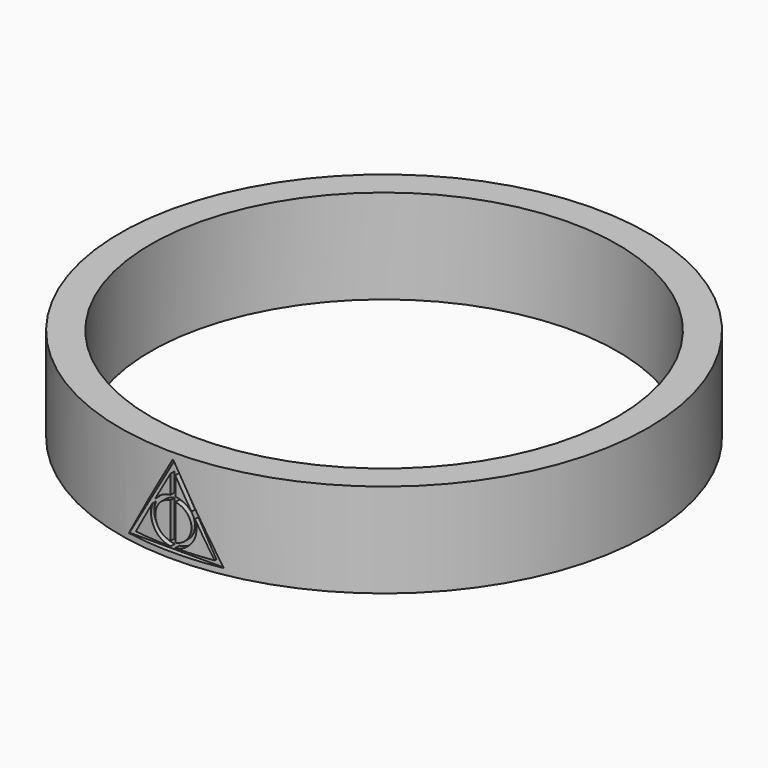
from build123d import *

# Parameters (mm, degrees)
F0_R     = 11.22
F0_R_2   = 9.92
F1_DEPTH = 4
F4_DEPTH = 0.3


with BuildPart() as f1:
    # F0 (on Top) → F1 (new body)
    with BuildSketch(Plane.XY):
        Circle(F0_R)
        Circle(F0_R_2, mode=Mode.SUBTRACT)
    extrude(amount=F1_DEPTH)

    # F3 (on offset) → F4 (cut)
    with BuildSketch(Plane.XZ.offset(11.3)):
        Polygon((0, 3.75), (-2.020726, 0.25), (2.020726, 0.25), align=None)
        with BuildLine():
            Line((-0.1, 0.45), (-1.674316, 0.45))
            Line((-1.674316, 0.45), (-0.9065, 1.779896))
            Line((-0.9065, 1.779896), (-0.89784, 1.774896))
            ThreePointArc((-0.89784, 1.774896), (-0.827242, 0.916552), (-0.1, 0.455186))
            Line((-0.1, 0.455186), (-0.1, 0.45))
        make_face(mode=Mode.SUBTRACT)
        with BuildLine():
            ThreePointArc((-0.1, 0.65655), (-0.766667, 1.416667), (-0.1, 2.176784))
            Line((-0.1, 2.176784), (-0.1, 0.65655))
        make_face(mode=Mode.SUBTRACT)
        with BuildLine():
            Line((0.9065, 1.779896), (1.674316, 0.45))
            Line((1.674316, 0.45), (0.1, 0.45))
            Line((0.1, 0.45), (0.1, 0.455186))
            ThreePointArc((0.1, 0.455186), (0.827242, 0.916552), (0.89784, 1.774896))
            Line((0.89784, 1.774896), (0.9065, 1.779896))
        make_face(mode=Mode.SUBTRACT)
        with BuildLine():
            ThreePointArc((0.1, 2.176784), (0.766667, 1.416667), (0.1, 0.65655))
            Line((0.1, 0.65655), (0.1, 2.176784))
        make_face(mode=Mode.SUBTRACT)
        with BuildLine():
            Line((-0.767816, 2.020104), (-0.1, 3.176795))
            Line((-0.1, 3.176795), (-0.1, 2.378147))
            ThreePointArc((-0.1, 2.378147), (-0.466355, 2.2634), (-0.759155, 2.015104))
            Line((-0.759155, 2.015104), (-0.767816, 2.020104))
        make_face(mode=Mode.SUBTRACT)
        with BuildLine():
            Line((0.1, 2.378147), (0.1, 3.176795))
            Line((0.1, 3.176795), (0.767816, 2.020104))
            Line((0.767816, 2.020104), (0.759155, 2.015104))
            ThreePointArc((0.759155, 2.015104), (0.466355, 2.2634), (0.1, 2.378147))
        make_face(mode=Mode.SUBTRACT)
    extrude(amount=-F4_DEPTH, mode=Mode.SUBTRACT)


solid = f1.part
